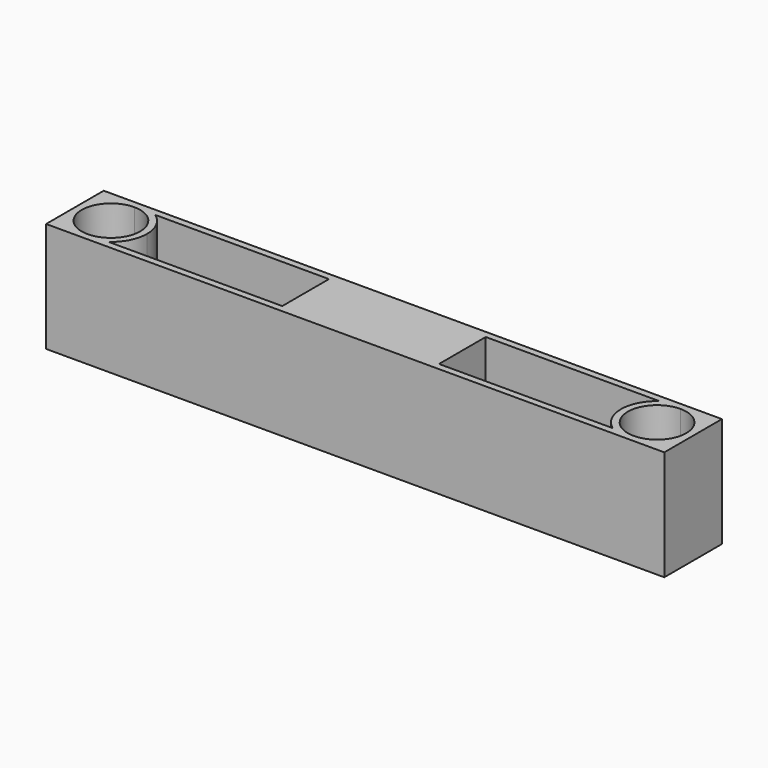
from build123d import *

# Parameters (mm, degrees)
F0_W     = 16.1
F0_H     = 6
F1_DEPTH = 11.3
F2_DEPTH = 6
F3_DEPTH = 10


with BuildPart() as f1:
    # F0 (on Top) → F1 (new body)
    with BuildSketch(Plane.XY):
        with BuildLine():
            Line((59.8, 7.4), (3.7, 7.4))
            ThreePointArc((3.7, 7.4), (4.837981, 7.220653), (5.865641, 6.7))
            Line((5.865641, 6.7), (23.7, 6.7))
            Line((23.7, 6.7), (39.8, 6.7))
            Line((39.8, 6.7), (57.634359, 6.7))
            ThreePointArc((57.634359, 6.7), (58.662019, 7.220653), (59.8, 7.4))
        make_face()
        with BuildLine():
            ThreePointArc((57.634359, 6.7), (56.1, 3.7), (57.634359, 0.7))
            Line((57.634359, 0.7), (59.8, 0.7))
            ThreePointArc((59.8, 0.7), (56.8, 3.7), (59.8, 6.7))
            Line((59.8, 6.7), (57.634359, 6.7))
        make_face()
        with BuildLine():
            ThreePointArc((59.8, 7.4), (62.416295, 6.316295), (63.5, 3.7))
            Line((63.5, 3.7), (63.5, 7.4))
            Line((63.5, 7.4), (59.8, 7.4))
        make_face()
        with BuildLine():
            ThreePointArc((63.5, 3.7), (62.416295, 1.083705), (59.8, 0))
            Line((59.8, 0), (63.5, 0))
            Line((63.5, 0), (63.5, 3.7))
        make_face()
        with BuildLine():
            ThreePointArc((5.865641, 0.7), (4.837981, 0.179347), (3.7, 0))
            Line((3.7, 0), (59.8, 0))
            ThreePointArc((59.8, 0), (58.662019, 0.179347), (57.634359, 0.7))
            Line((57.634359, 0.7), (39.8, 0.7))
            Line((39.8, 0.7), (23.7, 0.7))
            Line((23.7, 0.7), (5.865641, 0.7))
        make_face()
        with BuildLine():
            ThreePointArc((57.634359, 0.7), (58.662019, 0.179347), (59.8, 0))
            ThreePointArc((59.8, 0), (62.416295, 1.083705), (63.5, 3.7))
            ThreePointArc((63.5, 3.7), (62.416295, 6.316295), (59.8, 7.4))
            ThreePointArc((59.8, 7.4), (58.662019, 7.220653), (57.634359, 6.7))
            Line((57.634359, 6.7), (59.8, 6.7))
            ThreePointArc((59.8, 6.7), (61.92132, 5.82132), (62.8, 3.7))
            ThreePointArc((62.8, 3.7), (61.92132, 1.57868), (59.8, 0.7))
            Line((59.8, 0.7), (57.634359, 0.7))
        make_face()
        with Locations((31.75, 3.7)):
            Rectangle(F0_W, F0_H)
        with BuildLine():
            ThreePointArc((0, 3.7), (1.083705, 1.083705), (3.7, 0))
            ThreePointArc((3.7, 0), (4.837981, 0.179347), (5.865641, 0.7))
            Line((5.865641, 0.7), (3.7, 0.7))
            ThreePointArc((3.7, 0.7), (0.7, 3.7), (3.7, 6.7))
            Line((3.7, 6.7), (5.865641, 6.7))
            ThreePointArc((5.865641, 6.7), (4.837981, 7.220653), (3.7, 7.4))
            ThreePointArc((3.7, 7.4), (1.083705, 6.316295), (0, 3.7))
        make_face()
        with BuildLine():
            Line((3.7, 0.7), (5.865641, 0.7))
            ThreePointArc((5.865641, 0.7), (6.994152, 2.015196), (7.4, 3.7))
            ThreePointArc((7.4, 3.7), (6.994152, 5.384804), (5.865641, 6.7))
            Line((5.865641, 6.7), (3.7, 6.7))
            ThreePointArc((3.7, 6.7), (5.82132, 5.82132), (6.7, 3.7))
            ThreePointArc((6.7, 3.7), (5.82132, 1.57868), (3.7, 0.7))
        make_face()
        with BuildLine():
            Line((0, 7.4), (0, 3.7))
            ThreePointArc((0, 3.7), (1.083705, 6.316295), (3.7, 7.4))
            Line((3.7, 7.4), (0, 7.4))
        make_face()
        with BuildLine():
            Line((0, 3.7), (0, 0))
            Line((0, 0), (3.7, 0))
            ThreePointArc((3.7, 0), (1.083705, 1.083705), (0, 3.7))
        make_face()
        with BuildLine():
            ThreePointArc((3.7, 6.7), (0.7, 3.7), (3.7, 0.7))
            ThreePointArc((3.7, 0.7), (5.82132, 1.57868), (6.7, 3.7))
            ThreePointArc((6.7, 3.7), (5.82132, 5.82132), (3.7, 6.7))
        make_face()
        with BuildLine():
            ThreePointArc((7.4, 3.7), (6.994152, 2.015196), (5.865641, 0.7))
            Line((5.865641, 0.7), (23.7, 0.7))
            Line((23.7, 0.7), (23.7, 6.7))
            Line((23.7, 6.7), (5.865641, 6.7))
            ThreePointArc((5.865641, 6.7), (6.994152, 5.384804), (7.4, 3.7))
        make_face()
        with BuildLine():
            Line((39.8, 0.7), (57.634359, 0.7))
            ThreePointArc((57.634359, 0.7), (56.1, 3.7), (57.634359, 6.7))
            Line((57.634359, 6.7), (39.8, 6.7))
            Line((39.8, 6.7), (39.8, 0.7))
        make_face()
        with BuildLine():
            ThreePointArc((59.8, 6.7), (56.8, 3.7), (59.8, 0.7))
            ThreePointArc((59.8, 0.7), (61.92132, 1.57868), (62.8, 3.7))
            ThreePointArc((62.8, 3.7), (61.92132, 5.82132), (59.8, 6.7))
        make_face()
    extrude(amount=-F1_DEPTH)

    # F0 (on Top) → F2 (cut)
    with BuildSketch(Plane.XY):
        with BuildLine():
            ThreePointArc((3.7, 6.7), (0.7, 3.7), (3.7, 0.7))
            ThreePointArc((3.7, 0.7), (5.82132, 1.57868), (6.7, 3.7))
            ThreePointArc((6.7, 3.7), (5.82132, 5.82132), (3.7, 6.7))
        make_face()
        with BuildLine():
            ThreePointArc((59.8, 6.7), (56.8, 3.7), (59.8, 0.7))
            ThreePointArc((59.8, 0.7), (61.92132, 1.57868), (62.8, 3.7))
            ThreePointArc((62.8, 3.7), (61.92132, 5.82132), (59.8, 6.7))
        make_face()
    extrude(amount=-F2_DEPTH, mode=Mode.SUBTRACT)

    # F0 (on Top) → F3 (cut)
    with BuildSketch(Plane.XY):
        with BuildLine():
            ThreePointArc((7.4, 3.7), (6.994152, 2.015196), (5.865641, 0.7))
            Line((5.865641, 0.7), (23.7, 0.7))
            Line((23.7, 0.7), (23.7, 6.7))
            Line((23.7, 6.7), (5.865641, 6.7))
            ThreePointArc((5.865641, 6.7), (6.994152, 5.384804), (7.4, 3.7))
        make_face()
        with BuildLine():
            Line((39.8, 0.7), (57.634359, 0.7))
            ThreePointArc((57.634359, 0.7), (56.1, 3.7), (57.634359, 6.7))
            Line((57.634359, 6.7), (39.8, 6.7))
            Line((39.8, 6.7), (39.8, 0.7))
        make_face()
    extrude(amount=-F3_DEPTH, mode=Mode.SUBTRACT)


solid = f1.part
